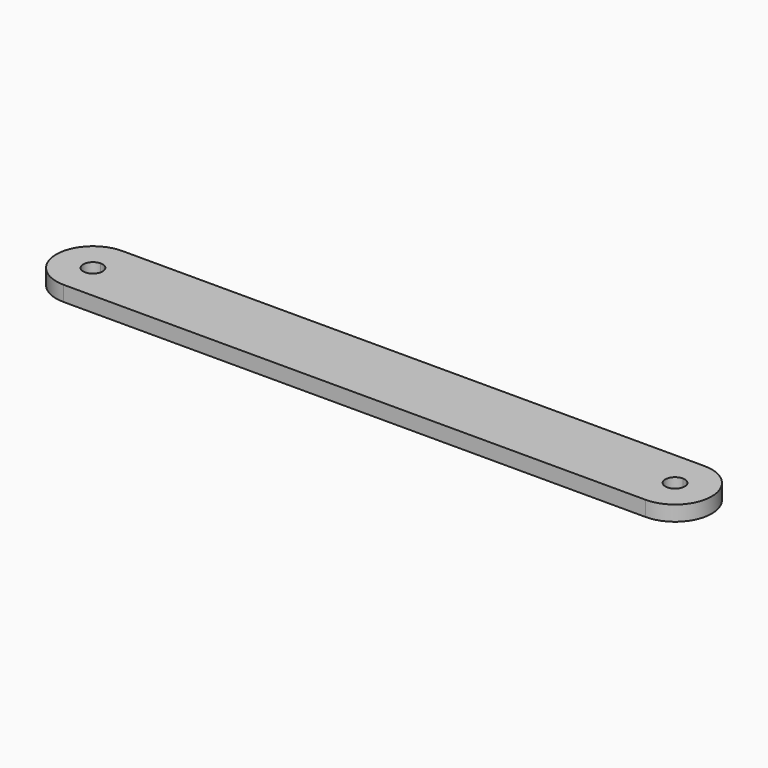
from build123d import *

# Parameters (mm, degrees)
F1_DEPTH = 3.97148


with BuildPart() as f1:
    # F0 (on Top) → F1 (new body)
    with BuildSketch(Plane.XY):
        with BuildLine():
            Line((131.827153, 6.762686), (-20.572847, 6.762686))
            ThreePointArc((-20.572847, 6.762686), (-30.166427, -2.830894), (-20.572847, -12.424474))
            Line((-20.572847, -12.424474), (131.827153, -12.424474))
            ThreePointArc((131.827153, -12.424474), (141.420733, -2.830894), (131.827153, 6.762686))
        make_face()
        with BuildLine():
            ThreePointArc((-20.572847, -5.370894), (-23.112847, -2.830894), (-20.572847, -0.290894))
            ThreePointArc((-20.572847, -0.290894), (-18.776796, -1.034843), (-18.032847, -2.830894))
            ThreePointArc((-18.032847, -2.830894), (-18.776796, -4.626945), (-20.572847, -5.370894))
        make_face(mode=Mode.SUBTRACT)
        with BuildLine():
            ThreePointArc((131.827153, -5.370894), (129.287153, -2.830894), (131.827153, -0.290894))
            ThreePointArc((131.827153, -0.290894), (133.623204, -1.034843), (134.367153, -2.830894))
            ThreePointArc((134.367153, -2.830894), (133.623204, -4.626945), (131.827153, -5.370894))
        make_face(mode=Mode.SUBTRACT)
    extrude(amount=F1_DEPTH)


solid = f1.part
